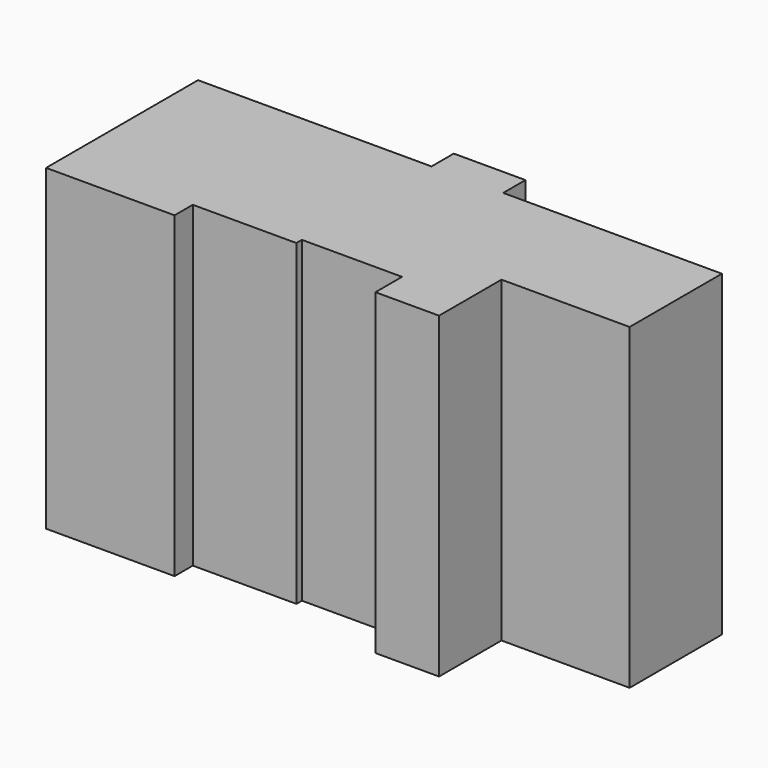
from build123d import *

# Parameters (mm, degrees)
F1_DEPTH = 250


with BuildPart() as f1:
    # F0 (on Top) → F1 (new body)
    with BuildSketch(Plane.XY):
        Polygon((0, 149.440229), (0, 0), (101.089381, 0), (101.089381, 17.9633), (182.606086, 17.9633), (182.606086, 23.407001), (261.410147, 23.407001), (261.410147, -2.774612), (311.440378, -2.774612), (311.440378, 58.66145), (412.278444, 58.66145), (412.278444, 149.440229), (240.172952, 149.440229), (240.172952, 171.327472), (183.759376, 171.327472), (183.759376, 149.440229), align=None)
    extrude(amount=F1_DEPTH)


solid = f1.part
